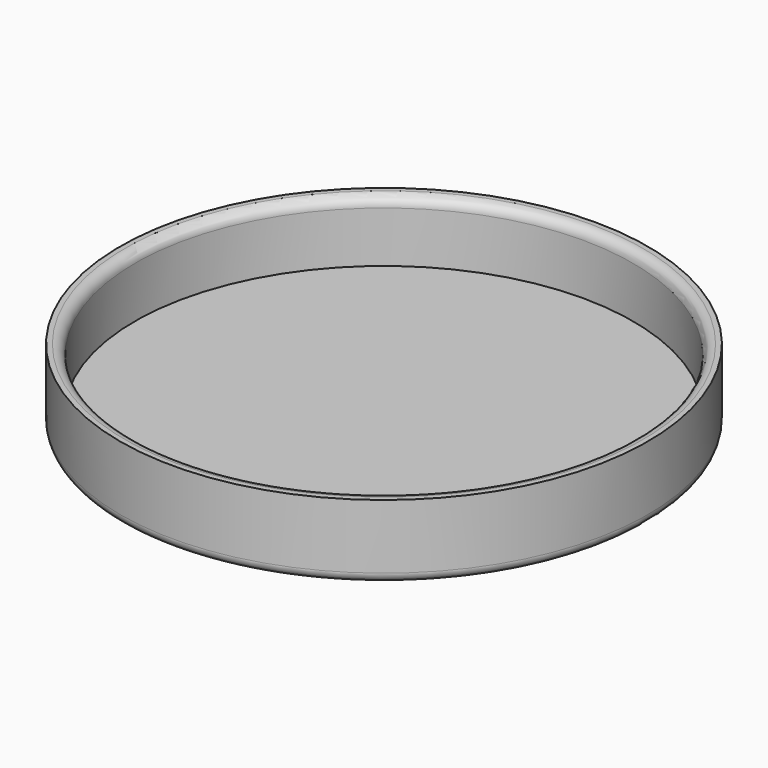
from build123d import *

# Parameters (mm, degrees)
SKETCH_R         = 53
PAD_DEPTH        = 2.7
SKETCH001_W      = 3
SKETCH001_H      = 15
REVOLUTION_ANGLE = 360
FILLET_R         = 2
FILLET001_R      = 2


with BuildPart() as part:
    # Sketch → Pad (new body)
    with BuildSketch(Plane.XY):
        Circle(SKETCH_R)
    extrude(amount=PAD_DEPTH)

    # Sketch001 → Revolution (revolve, symmetric)
    with BuildSketch(Plane(origin=(0, 50.25, 0), x_dir=(0, 1, 0), z_dir=(1, 0, 0))) as revolution_sk:
        with Locations((1.5, 7.5)):
            Rectangle(SKETCH001_W, SKETCH001_H)
    revolve(axis=Axis((0, 0, 0), (0, 0, 1)), revolution_arc=REVOLUTION_ANGLE / 2)
    revolve(revolution_sk.sketch, axis=Axis((0, 0, 0), (0, 0, -1)), revolution_arc=REVOLUTION_ANGLE / 2)

    # Fillet
    fillet_edges = [part.edges().sort_by_distance(p)[0] for p in [
        (0, 53.25, 0),
    ]]
    fillet(fillet_edges, radius=FILLET_R)

    # Fillet001
    fillet001_edges = [part.edges().sort_by_distance(p)[0] for p in [
        (0, 50.25, 15),
    ]]
    fillet(fillet001_edges, radius=FILLET001_R)


solid = part.part
